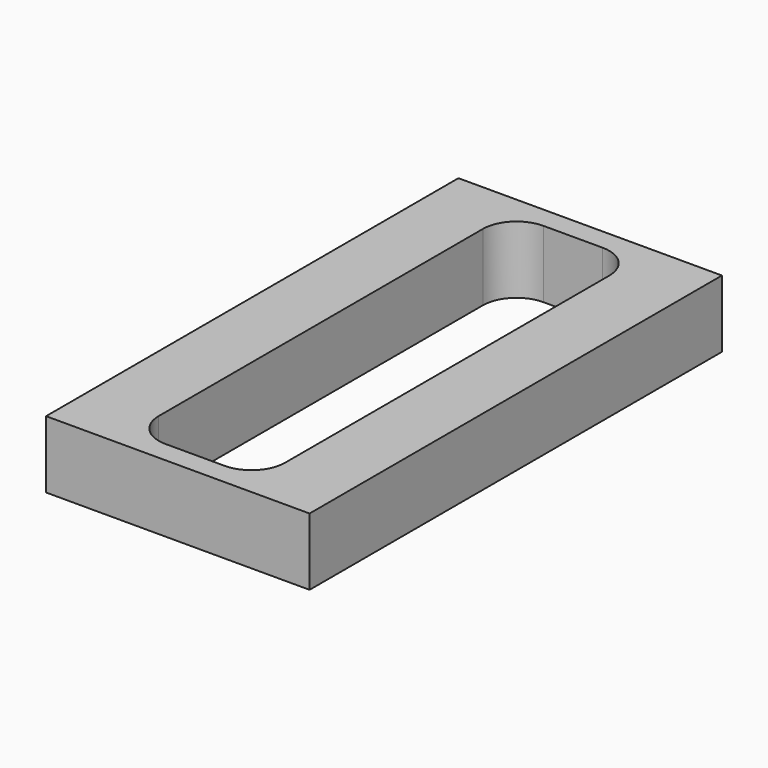
from build123d import *

# Parameters (mm, degrees)
F0_W     = 24.892
F0_H     = 48.6918
F1_DEPTH = 6.35


with BuildPart() as f1:
    # F0 (on Top) → F1 (new body)
    with BuildSketch(Plane.XY):
        with Locations((12.446, 24.3459)):
            Rectangle(F0_W, F0_H)
        with BuildLine():
            ThreePointArc((6.477, 43.4848), (7.406936, 45.729864), (9.652, 46.6598))
            Line((9.652, 46.6598), (15.24, 46.6598))
            ThreePointArc((15.24, 46.6598), (17.485064, 45.729864), (18.415, 43.4848))
            Line((18.415, 43.4848), (18.415, 5.207))
            ThreePointArc((18.415, 5.207), (17.485064, 2.961936), (15.24, 2.032))
            Line((15.24, 2.032), (9.652, 2.032))
            ThreePointArc((9.652, 2.032), (7.406936, 2.961936), (6.477, 5.207))
            Line((6.477, 5.207), (6.477, 43.4848))
        make_face(mode=Mode.SUBTRACT)
    extrude(amount=F1_DEPTH)


solid = f1.part
